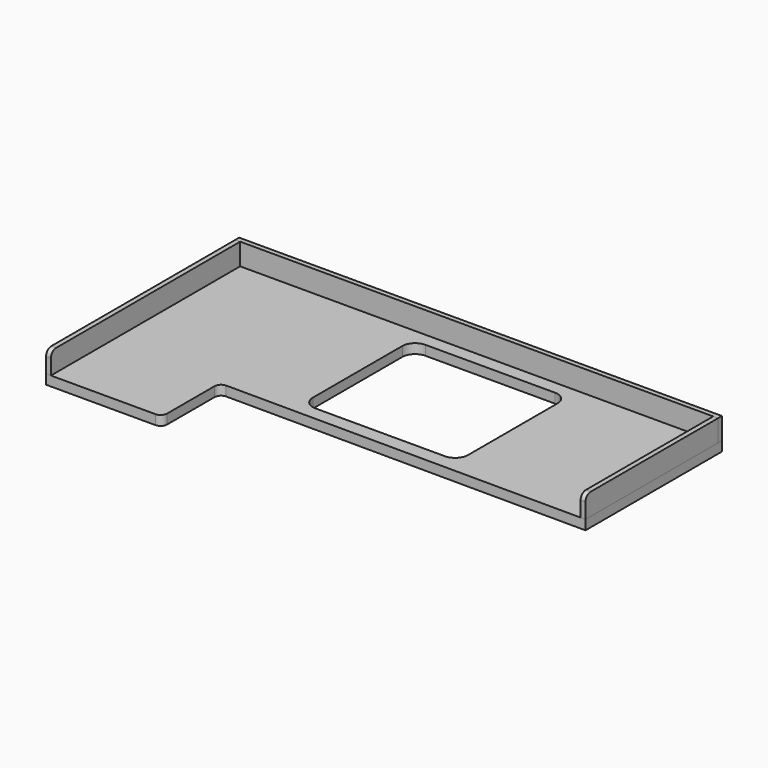
from build123d import *

# Parameters (mm, degrees)
F0_W      = 612.775
F0_H      = 542.925
F1_DEPTH  = 38.1
F3_W      = 933.45
F3_H      = 85.725
F4_DEPTH  = 19.05
F6_W      = 654.05
F6_H      = 85.725
F7_DEPTH  = 19.05
F9_W      = 1905
F9_H      = 85.725
F10_DEPTH = 19.05
F11_R     = 25.4
F11_2_R   = 25.4
F12_R     = 50.8
F13_R     = 25.4


with BuildPart() as f1:
    # F0 (on Top) → F1 (new body)
    with BuildSketch(Plane.XY):
        Polygon((1201.0157378892, 677.68615251), (-703.9842621108, 677.68615251), (-703.9842621108, -274.81384749), (-246.7842621108, -274.81384749), (-246.7842621108, 10.6256458031), (1201.0157378892, 4.58615251), align=None)
        with Locations((343.7657378892, 334.78615251)):
            Rectangle(F0_W, F0_H, mode=Mode.SUBTRACT)
    extrude(amount=F1_DEPTH)

    # F12
    f12_edges = [f1.edges().sort_by_distance(p)[0] for p in [
        (37.378238, 606.248653, 19.05),
        (650.153238, 606.248653, 19.05),
        (650.153238, 63.323653, 19.05),
        (37.378238, 63.323653, 19.05),
    ]]
    fillet(f12_edges, radius=F12_R)

    # F13
    f13_edges = [f1.edges().sort_by_distance(p)[0] for p in [
        (-246.784262, -274.813847, 19.05),
        (-246.784262, 10.625646, 19.05),
    ]]
    fillet(f13_edges, radius=F13_R)


with BuildPart() as f4:
    # F3 (on offset) → F4 (new body)
    with BuildSketch(Plane(origin=(-703.9842621108, 0, 0), x_dir=(0, -1, 0), z_dir=(-1, 0, 0))):
        with Locations((-191.91115251, 80.9625)):
            Rectangle(F3_W, F3_H)
    extrude(amount=-F4_DEPTH)

    # F11#2
    f11_2_edges = [f4.edges().sort_by_distance(p)[0] for p in [
        (-694.459262, -274.813847, 123.825),
    ]]
    fillet(f11_2_edges, radius=F11_2_R)


with BuildPart() as f7:
    # F6 (on offset) → F7 (new body)
    with BuildSketch(Plane.YZ.offset(1201.0157378892)):
        with Locations((331.61115251, 80.9625)):
            Rectangle(F6_W, F6_H)
    extrude(amount=-F7_DEPTH)

    # F11
    f11_edges = [f7.edges().sort_by_distance(p)[0] for p in [
        (1191.490738, 4.586153, 123.825),
    ]]
    fillet(f11_edges, radius=F11_R)


with BuildPart() as f10:
    # F9 (on offset) → F10 (new body)
    with BuildSketch(Plane(origin=(0, 677.68615251, 0), x_dir=(-1, 0, 0), z_dir=(0, 1, 0))):
        with Locations((-248.5157378892, 80.9625)):
            Rectangle(F9_W, F9_H)
    extrude(amount=-F10_DEPTH)


solid = Compound([f1.part, f4.part, f7.part, f10.part])
